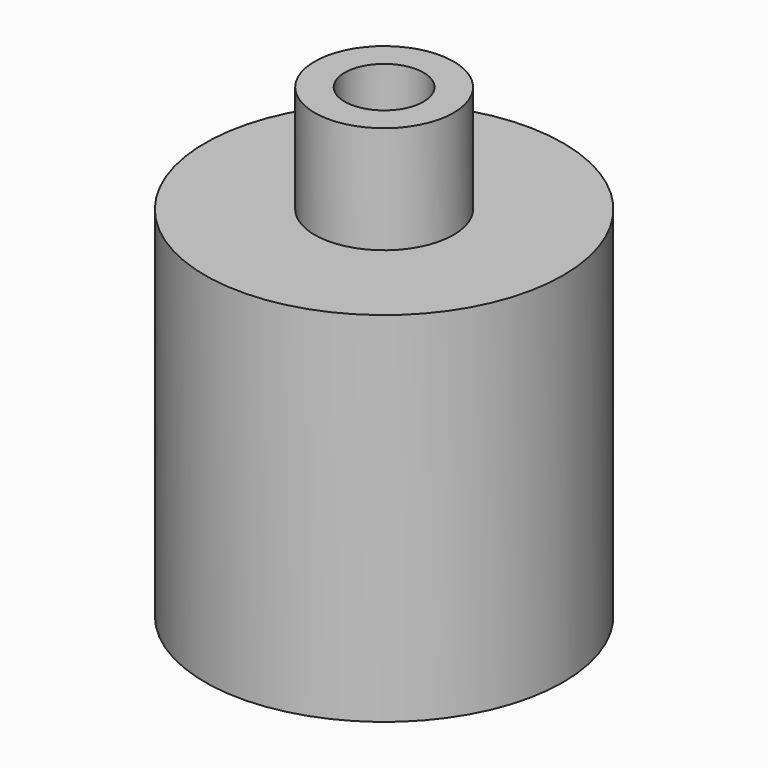
from build123d import *

# Parameters (mm, degrees)
SKETCH264_R     = 2.5
SKETCH264_R_2   = 0.5
PAD178_DEPTH    = 1
SKETCH258_R     = 0.97
SKETCH258_R_2   = 0.55
PAD173_DEPTH    = 1.5
SKETCH308_R     = 2.5
SKETCH308_R_2   = 1.5
PAD213_DEPTH    = 4
CHAMFER005_SIZE = 0.95


with BuildPart() as part:
    # Sketch264 → Pad178 (new body)
    with BuildSketch(Plane.XY):
        Circle(SKETCH264_R)
        Circle(SKETCH264_R_2, mode=Mode.SUBTRACT)
    extrude(amount=PAD178_DEPTH)

    # Sketch258 (on Face4 of Pad178) → Pad173 (join)
    with BuildSketch(Plane.XY.offset(1)):
        Circle(SKETCH258_R)
        Circle(SKETCH258_R_2, mode=Mode.SUBTRACT)
    extrude(amount=PAD173_DEPTH)

    # Sketch308 (on Face2 of Pad173) → Pad213 (join)
    with BuildSketch(Plane(origin=(0, 0, 0), x_dir=(1, 0, 0), z_dir=(0, 0, -1))):
        Circle(SKETCH308_R)
        Circle(SKETCH308_R_2, mode=Mode.SUBTRACT)
    extrude(amount=PAD213_DEPTH)

    # Chamfer005
    chamfer005_edges = [part.edges().sort_by_distance(p)[0] for p in [
        (-1.5, 0, 0),
    ]]
    chamfer(chamfer005_edges, length=CHAMFER005_SIZE)


with BuildPart() as part_1:
    # Body048 placement: moved
    add(part.part.moved(Location((0, 0, -2.2))))


solid = part_1.part
